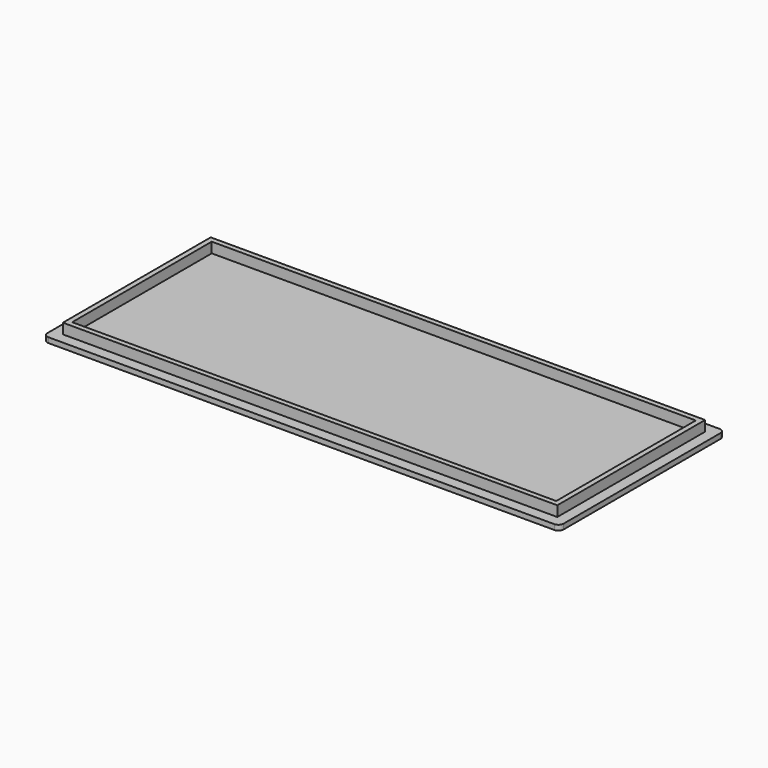
from build123d import *

# Parameters (mm, degrees)
F0_W     = 100
F0_H     = 40
F1_DEPTH = 1
F2_W     = 95.8
F2_H     = 35.8
F2_W_2   = 93.8
F2_H_2   = 33.8
F3_DEPTH = 2
F4_R     = 1


with BuildPart() as f1:
    # F0 (on Top) → F1 (new body)
    with BuildSketch(Plane.XY):
        with Locations((50, 20)):
            Rectangle(F0_W, F0_H)
    extrude(amount=F1_DEPTH)

    # F2 (on face) → F3 (join)
    with BuildSketch(Plane.XY.offset(1)):
        with Locations((50, 20)):
            Rectangle(F2_W, F2_H)
        with Locations((50, 20)):
            Rectangle(F2_W_2, F2_H_2, mode=Mode.SUBTRACT)
    extrude(amount=F3_DEPTH)

    # F4
    f4_edges = [f1.edges().sort_by_distance(p)[0] for p in [
        (0, 0, 0.5),
        (100, 0, 0.5),
        (100, 40, 0.5),
        (0, 40, 0.5),
    ]]
    fillet(f4_edges, radius=F4_R)


solid = f1.part
